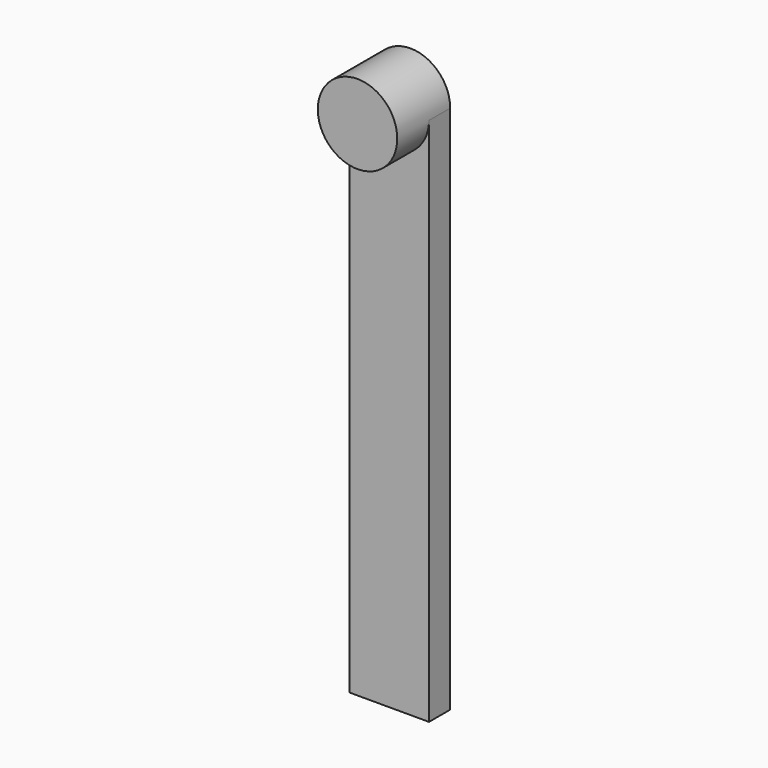
from build123d import *

# Parameters (mm, degrees)
F1_DEPTH = 25
F2_DEPTH = 10


with BuildPart() as f1:
    # F0 (on Front) → F1 (new body)
    with BuildSketch(Plane.XZ):
        with BuildLine():
            ThreePointArc((15, 150), (0, 165), (-15, 150))
            Line((-15, 150), (15, 150))
        make_face()
        with BuildLine():
            Line((15, 150), (-15, 150))
            ThreePointArc((-15, 150), (0, 135), (15, 150))
        make_face()
    extrude(amount=F1_DEPTH)

    # F0 (on Front) → F2 (join)
    with BuildSketch(Plane.XZ):
        with BuildLine():
            ThreePointArc((15, 150), (0, 165), (-15, 150))
            Line((-15, 150), (15, 150))
        make_face()
        with BuildLine():
            ThreePointArc((15, 150), (0, 135), (-15, 150))
            Line((-15, 150), (-15, -50))
            Line((-15, -50), (15, -50))
            Line((15, -50), (15, 150))
        make_face()
    extrude(amount=F2_DEPTH)


solid = f1.part
